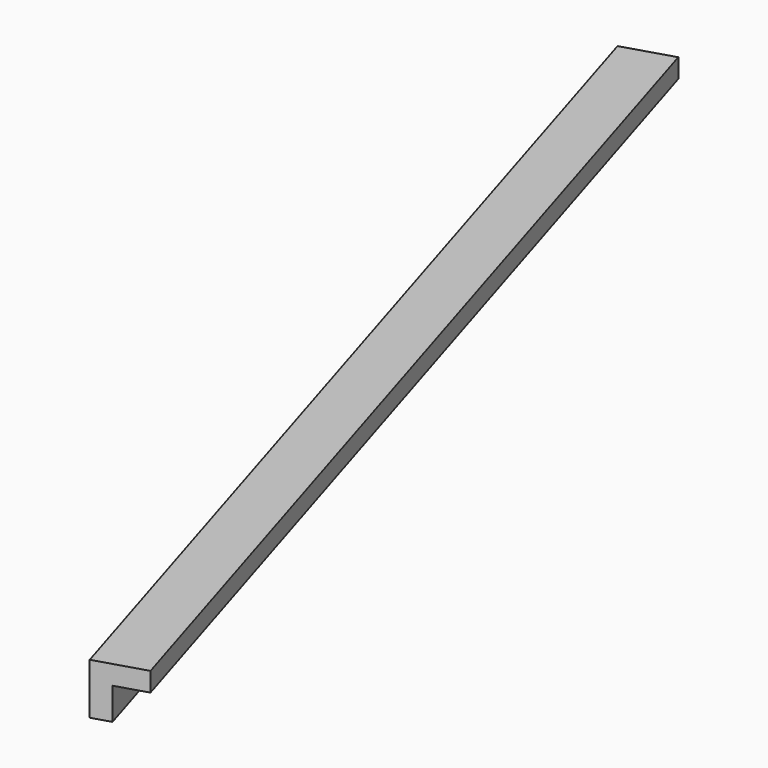
from build123d import *

# Parameters (mm, degrees)
BOX171_W               = 0.8
BOX171_H               = 17.5
BOX171_DEPTH           = 0.8
BOX172_W               = 0.8
BOX172_H               = 17.5
BOX172_DEPTH           = 0.8
CUT089_PLACEMENT_ANGLE = 197


with BuildPart() as cubo171:
    # Box171 → Box171 (new body)
    with BuildSketch(Plane.XY):
        with Locations((0.4, 8.75)):
            Rectangle(BOX171_W, BOX171_H)
    extrude(amount=BOX171_DEPTH)


with BuildPart() as obj1:
    # Box172 → Box172 (new body)
    with BuildSketch(Plane(origin=(0.3, 0, 0.3), x_dir=(1, 0, 0), z_dir=(0, 0, 1))):
        with Locations((0.4, 8.75)):
            Rectangle(BOX172_W, BOX172_H)
    extrude(amount=BOX172_DEPTH)

    # Cut089: cut Cubo171
    add(cubo171.part, mode=Mode.SUBTRACT)


with BuildPart() as obj1_1:
    # Cut089 placement: moved
    add(obj1.part.moved(Location((-185.7, 142.4, -1.45))).rotate(Axis((-185.7, 142.4, -1.45), (0, 0, 1)), CUT089_PLACEMENT_ANGLE))


solid = obj1_1.part
